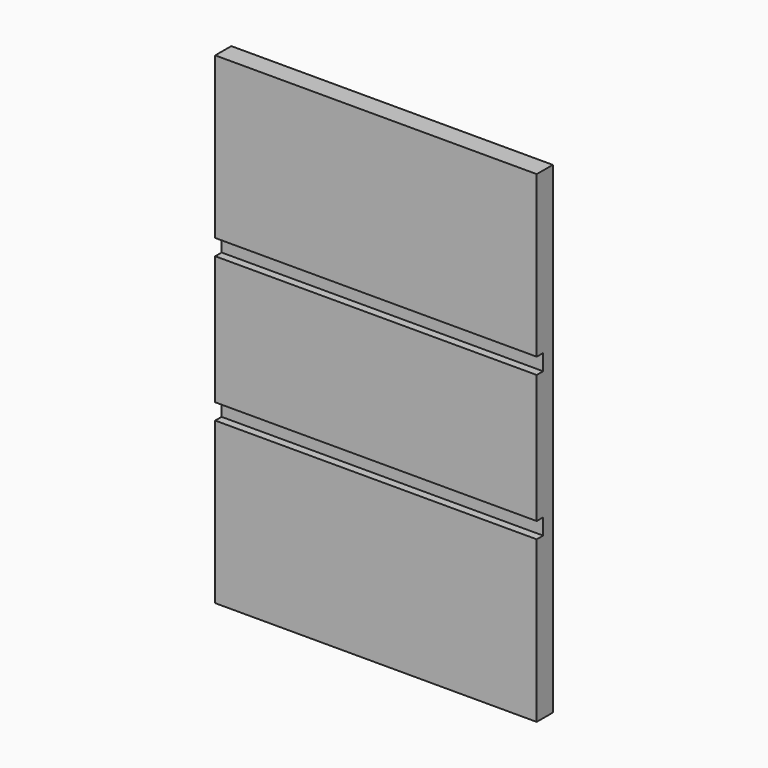
from build123d import *

# Parameters (mm, degrees)
F0_W     = 400
F0_H     = 600
F1_DEPTH = 25
F2_W     = 400
F2_H     = 20
F3_DEPTH = 10


with BuildPart() as f1:
    # F0 (on Front) → F1 (new body)
    with BuildSketch(Plane.XZ):
        with Locations((200, 300)):
            Rectangle(F0_W, F0_H)
        with Locations((200, 300)):
            Rectangle(F0_W, F0_H)
    extrude(amount=F1_DEPTH)

    # F2 (on face) → F3 (cut)
    with BuildSketch(Plane.XZ.offset(25)):
        with Locations((200, 390)):
            Rectangle(F2_W, F2_H)
        with Locations((200, 210)):
            Rectangle(F2_W, F2_H)
    extrude(amount=-F3_DEPTH, mode=Mode.SUBTRACT)


solid = f1.part
